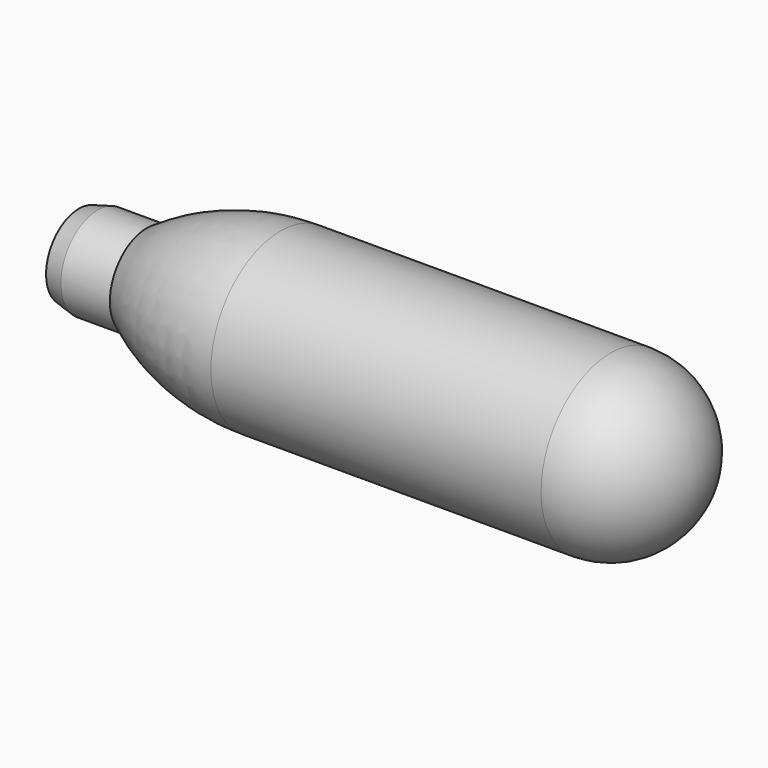
from build123d import *

# Parameters (mm, degrees)
F2_R = 9


with BuildPart() as f1:
    # F0 (on Front) → F1 (revolve)
    with BuildSketch(Plane.XZ):
        with BuildLine():
            Line((0, 4.25), (0, 0))
            Line((0, 0), (64, 0))
            Line((64, 0), (64, 9))
            Line((64, 9), (20.851, 9))
            ThreePointArc((20.851, 9), (13.606818, 7.913604), (7, 4.75))
            Line((7, 4.75), (1.936492, 4.75))
            Line((1.936492, 4.75), (0, 4.25))
        make_face()
    revolve(axis=Axis((32, 0, 0), (1, 0, 0)))

    # F2
    f2_edges = [f1.edges().sort_by_distance(p)[0] for p in [
        (64, 0, -9),
    ]]
    fillet(f2_edges, radius=F2_R)


solid = f1.part
